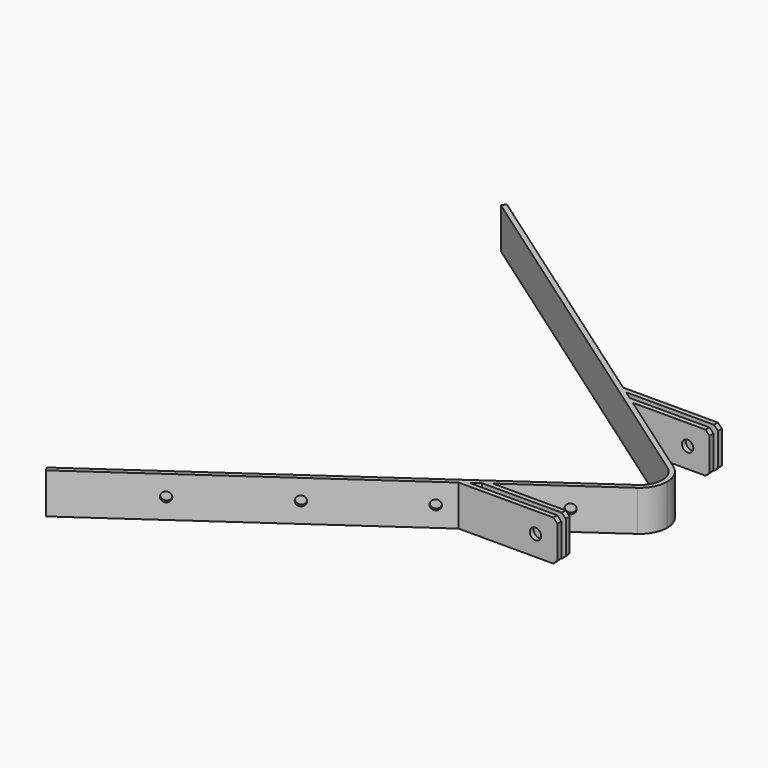
from build123d import *

# Parameters (mm, degrees)
PAD_DEPTH           = 50
PAD001_DEPTH        = 50
SKETCH015_R         = 6
POCKET005_DEPTH     = 10
LINEARPATTERN_COUNT = 4
LINEARPATTERN_PITCH = 130
PAD007_DEPTH        = 10
CHAMFER_SIZE        = 5
SKETCH016_R         = 7
POCKET_DEPTH        = 20
SKETCH017_R         = 7
POCKET006_DEPTH     = 20


with BuildPart() as part:
    # Sketch → Pad (new body)
    with BuildSketch(Plane.XY):
        with BuildLine():
            Line((-447.593833, 354.914912), (19.501599, 27.85117))
            ThreePointArc((34, 0), (30.158368, 15.699453), (19.501599, 27.85117))
            Line((28, 0), (34, 0))
            ThreePointArc((28, 0), (24.836303, 12.928961), (16.06014, 22.936257))
            Line((16.06014, 22.936257), (-451.035292, 350))
            Line((-451.035292, 350), (-447.593833, 354.914912))
        make_face()
    extrude(amount=PAD_DEPTH)

    # Sketch001 → Pad001 (join)
    with BuildSketch(Plane.XY):
        Polygon((-95, 107.75), (-103.568888, 113.75), (0, 113.75), (0, 107.75), align=None)
        Polygon((-113.431112, 120.75), (-122, 126.75), (0, 126.75), (0, 120.75), align=None)
    extrude(amount=PAD001_DEPTH)

    # Sketch015 → Pocket005 (cut)
    with BuildSketch(Plane(origin=(22.943057, 32.766082, 0), x_dir=(-0.819152, 0.573576, 0), z_dir=(0.573576, 0.819152, 0))):
        with Locations((454.477006, 25)):
            Circle(SKETCH015_R)
    pocket005 = extrude(amount=-POCKET005_DEPTH, mode=Mode.SUBTRACT)

    # LinearPattern: Pocket005 ×4
    with Locations(*[Vector(0.819152, -0.573576, 0) * (i * LINEARPATTERN_PITCH) for i in range(1, LINEARPATTERN_COUNT)]):
        add(pocket005, mode=Mode.SUBTRACT)

    # Sketch001 → Pad007 (join)
    with BuildSketch(Plane.XY):
        Polygon((-95, 107.75), (-103.568888, 113.75), (0, 113.75), (0, 107.75), align=None)
        Polygon((-113.431112, 120.75), (-122, 126.75), (0, 126.75), (0, 120.75), align=None)
    extrude(amount=PAD007_DEPTH)

    # Mirrored: part across XZ


with BuildPart() as part_1:
    add(part.part)
    add(part.part.mirror(Plane.XZ))

    # Chamfer
    chamfer_edges = [part_1.edges().sort_by_distance(p)[0] for p in [
        (0, -110.75, 50),
        (0, -123.75, 50),
        (0, -123.75, 0),
        (0, -110.75, 0),
        (0, 123.75, 50),
        (0, 110.75, 50),
        (0, 110.75, 0),
        (0, 123.75, 0),
    ]]
    chamfer(chamfer_edges, length=CHAMFER_SIZE)

    # Sketch016 (on Face21 of Chamfer) → Pocket (cut)
    with BuildSketch(Plane.XZ.offset(126.75)):
        with Locations((-27, 25)):
            Circle(SKETCH016_R)
    extrude(amount=-POCKET_DEPTH, mode=Mode.SUBTRACT)

    # Sketch017 (on Face1 of Pocket) → Pocket006 (cut)
    with BuildSketch(Plane(origin=(0, 126.75, 0), x_dir=(-1, 0, 0), z_dir=(0, 1, 0))):
        with Locations((27, 25)):
            Circle(SKETCH017_R)
    extrude(amount=-POCKET006_DEPTH, mode=Mode.SUBTRACT)


solid = part_1.part
